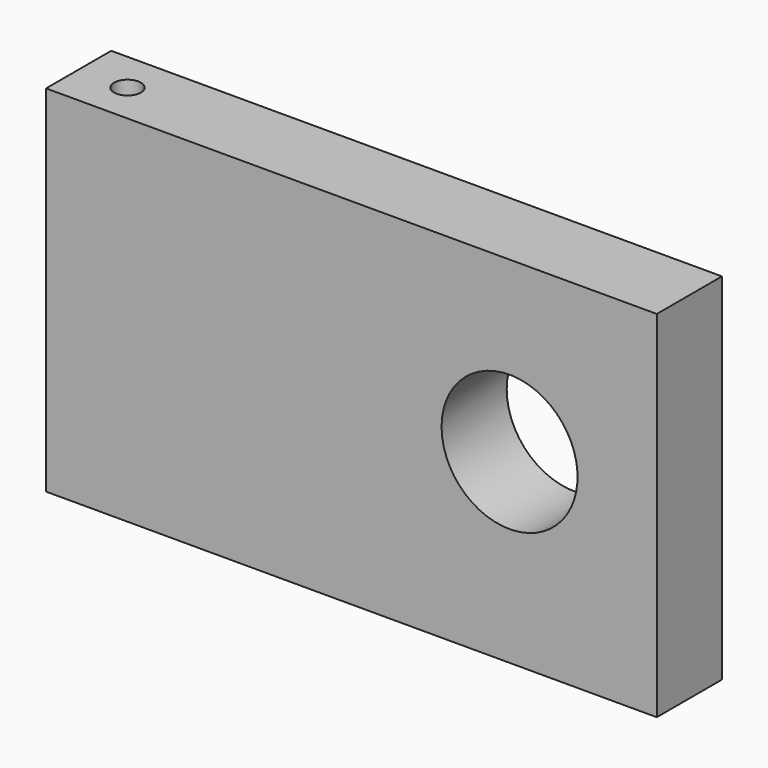
from build123d import *

# Parameters (mm, degrees)
F0_W     = 75
F0_H     = 10
F0_R     = 1.65
F1_DEPTH = 43.6
F3_D     = 16.7


with BuildPart() as f1:
    # F0 (on Top) → F1 (new body)
    with BuildSketch(Plane.XY):
        with Locations((-35.932864, 17.145373)):
            Rectangle(F0_W, F0_H)
        with Locations((-67.432864, 17.145373)):
            Circle(F0_R, mode=Mode.SUBTRACT)
    extrude(amount=F1_DEPTH)

    # F3 (through all)
    with Locations(Plane.XZ):
        with Locations((-16.512098, 22.809582)):
            Hole(F3_D / 2)


solid = f1.part
